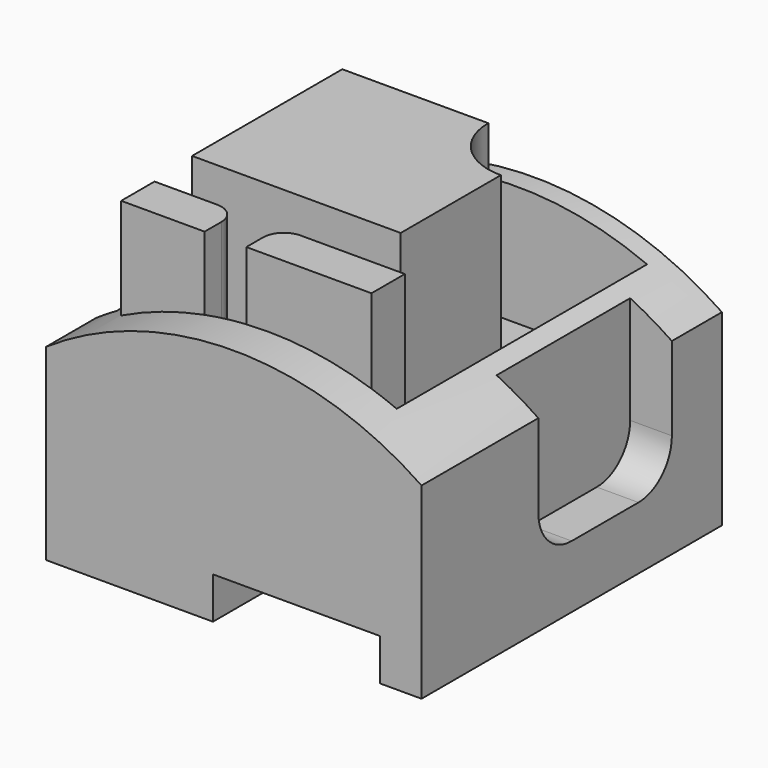
from build123d import *

# Parameters (mm, degrees)
F1_DEPTH  = 90
F3_W      = 60
F3_H      = 75
F4_DEPTH  = 28.8572172234
F6_DEPTH  = 75
F7_W      = 20
F7_H      = 10
F7_W_2    = 30
F8_DEPTH  = 45
F9_R      = 5
F11_DEPTH = 50
F13_W     = 5
F13_H     = 40
F13_W_2   = 10
F14_DEPTH = 65.001
F15_R     = 10


with BuildPart() as f1:
    # F0 (on Front) → F1 (new body)
    with BuildSketch(Plane.XZ):
        with BuildLine():
            ThreePointArc((90, 45), (45, 58.8562172234), (0, 45))
            Line((0, 45), (0, 0))
            Line((0, 0), (40, 0))
            Line((40, 0), (40, 10))
            Line((40, 10), (80, 10))
            Line((80, 10), (80, 0))
            Line((80, 0), (90, 0))
            Line((90, 0), (90, 45))
        make_face()
    extrude(amount=-F1_DEPTH)

    # F3 (on offset) → F4 (cut, through all)
    with BuildSketch(Plane(origin=(0, 0, 30), x_dir=(1, 0, 0), z_dir=(0, 0, -1))):
        with Locations((40, -47.5)):
            Rectangle(F3_W, F3_H)
    extrude(amount=-F4_DEPTH, mode=Mode.SUBTRACT)

    # F5 (on face) → F6 (cut, through all)
    with BuildSketch(Plane.XZ.offset(-85)):
        Polygon((76.658440432, 54.8496379912), (70, 54.8496379912), (70, 30), align=None)
    extrude(amount=F6_DEPTH, mode=Mode.SUBTRACT)

    # F7 (on face) → F8 (join)
    with BuildSketch(Plane.XY.offset(30)):
        with Locations((20, 15)):
            Rectangle(F7_W, F7_H)
        with Locations((55, 15)):
            Rectangle(F7_W_2, F7_H)
    extrude(amount=F8_DEPTH)

    # F9
    f9_edges = [f1.edges().sort_by_distance(p)[0] for p in [
        (40, 20, 52.5),
        (30, 20, 52.5),
    ]]
    fillet(f9_edges, radius=F9_R)

    # F10 (on face) → F11 (join)
    with BuildSketch(Plane.XY.offset(30)):
        with BuildLine():
            Line((50, 70), (15, 70))
            Line((15, 70), (15, 25))
            Line((15, 25), (65, 25))
            Line((65, 25), (65, 55))
            ThreePointArc((65, 55), (54.3933982822, 59.3933982822), (50, 70))
        make_face()
    extrude(amount=F11_DEPTH)

    # F13 (on offset) → F14 (cut, through all)
    with BuildSketch(Plane(origin=(0, 0, 15), x_dir=(1, 0, 0), z_dir=(0, 0, -1))):
        with Locations((2.5, -35)):
            Rectangle(F13_W, F13_H)
        with Locations((85, -55)):
            Rectangle(F13_W_2, F13_H)
    extrude(amount=-F14_DEPTH, mode=Mode.SUBTRACT)

    # F15
    f15_edges = [f1.edges().sort_by_distance(p)[0] for p in [
        (2.5, 55, 15),
        (2.5, 15, 15),
        (85, 35, 15),
        (85, 75, 15),
    ]]
    fillet(f15_edges, radius=F15_R)


solid = f1.part
